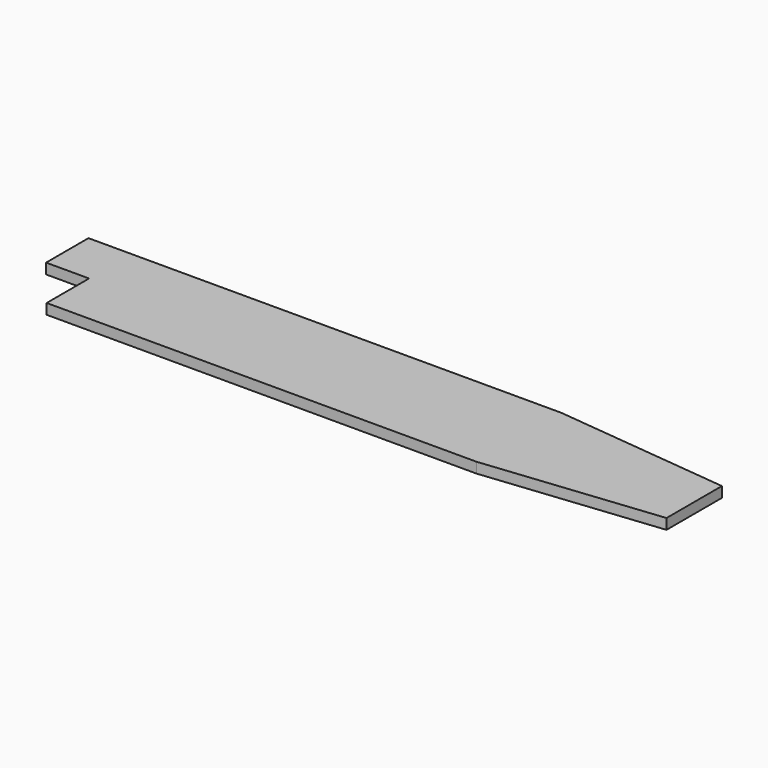
from build123d import *

# Parameters (mm, degrees)
PAD_DEPTH = 2.5


with BuildPart() as part:
    # Sketch → Pad (new body, symmetric)
    with BuildSketch(Plane.XY):
        Polygon((0, 25.4), (20.6, 25.4), (20.6, 0), (226.6, 0), (310.6, 8.8), (310.6, 42), (226.6, 50.8), (0, 50.8), align=None)
    extrude(amount=PAD_DEPTH, both=True)


solid = part.part
